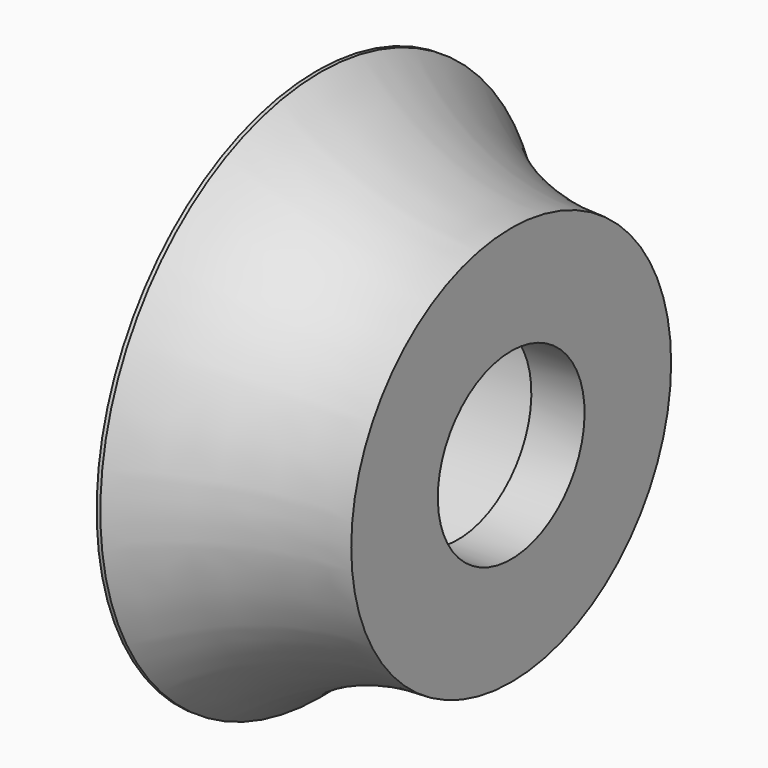
from build123d import *

# Parameters (mm, degrees)
SKETCH009_R     = 8.5
POCKET004_DEPTH = 8
SKETCH010_R     = 5
POCKET005_DEPTH = 10.901


with BuildPart() as part:
    # Sketch008 → Revolution002 (revolve)
    with BuildSketch(Plane.XZ):
        with BuildLine():
            Line((0, 0), (10.9, 0))
            Line((10.9, 0), (10.9, 10.9))
            ThreePointArc((0.5, 15), (5.310501, 11.962002), (10.9, 10.9))
            Line((0.3, 15), (0.5, 15))
            Line((0.3, 10.9), (0.3, 15))
            Line((0, 10.9), (0.3, 10.9))
            Line((0, 0), (0, 10.9))
        make_face()
    revolve(axis=Axis((0, 0, 0), (1, 0, 0)))

    # Sketch009 (on Face6 of Revolution002) → Pocket004 (cut)
    with BuildSketch(Plane(origin=(0, 0, 0), x_dir=(0, 0, -1), z_dir=(-1, 0, 0))):
        Circle(SKETCH009_R)
    extrude(amount=-POCKET004_DEPTH, mode=Mode.SUBTRACT)

    # Sketch010 (on Face1 of Pocket004) → Pocket005 (cut, through all)
    with BuildSketch(Plane(origin=(10.9, 0, 0), x_dir=(0, 0, 1), z_dir=(1, 0, 0))):
        Circle(SKETCH010_R)
    extrude(amount=-POCKET005_DEPTH, mode=Mode.SUBTRACT)


solid = part.part
